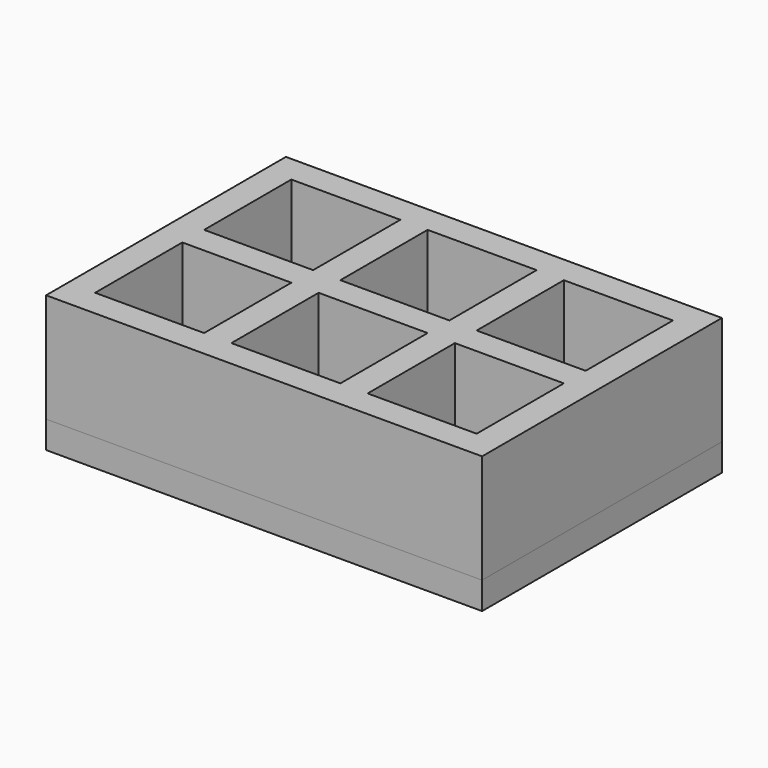
from build123d import *

# Parameters (mm, degrees)
F0_W     = 203.2
F0_H     = 139.7
F0_W_2   = 50.8
F0_H_2   = 12.7
F0_W_3   = 12.7
F0_H_3   = 50.8
F1_DEPTH = 50.8
F2_DEPTH = 12.7


with BuildPart() as f1:
    # F0 (on Top) → F1 (new body)
    with BuildSketch(Plane.XY):
        with Locations((15.3589383218, 1.8395856954)):
            Rectangle(F0_W, F0_H)
        Polygon((-22.7410616782, -55.3104143046), (-73.5410616782, -55.3104143046), (-73.5410616782, -4.5104143046), (-73.5410616782, 8.1895856954), (-73.5410616782, 58.9895856954), (-22.7410616782, 58.9895856954), (-10.0410616782, 58.9895856954), (40.7589383218, 58.9895856954), (53.4589383218, 58.9895856954), (104.2589383218, 58.9895856954), (104.2589383218, 8.1895856954), (104.2589383218, -4.5104143046), (104.2589383218, -55.3104143046), (53.4589383218, -55.3104143046), (40.7589383218, -55.3104143046), (-10.0410616782, -55.3104143046), align=None, mode=Mode.SUBTRACT)
        with Locations((-48.1410616782, 1.8395856954)):
            Rectangle(F0_W_2, F0_H_2)
        with Locations((15.3589383218, 1.8395856954)):
            Rectangle(F0_W_2, F0_H_2)
        with Locations((-16.3910616782, 1.8395856954)):
            Rectangle(F0_W_3, F0_H_2)
        with Locations((47.1089383218, 1.8395856954)):
            Rectangle(F0_W_3, F0_H_2)
        with Locations((78.8589383218, 1.8395856954)):
            Rectangle(F0_W_2, F0_H_2)
        with Locations((47.1089383218, -29.9104143046)):
            Rectangle(F0_W_3, F0_H_3)
        with Locations((-16.3910616782, -29.9104143046)):
            Rectangle(F0_W_3, F0_H_3)
        with Locations((47.1089383218, 33.5895856954)):
            Rectangle(F0_W_3, F0_H_3)
        with Locations((-16.3910616782, 33.5895856954)):
            Rectangle(F0_W_3, F0_H_3)
    extrude(amount=F1_DEPTH)


with BuildPart() as f2:
    # F0 (on Top) → F2 (new body)
    with BuildSketch(Plane.XY):
        with Locations((15.3589383218, 1.8395856954)):
            Rectangle(F0_W, F0_H)
        Polygon((-22.7410616782, -55.3104143046), (-73.5410616782, -55.3104143046), (-73.5410616782, -4.5104143046), (-73.5410616782, 8.1895856954), (-73.5410616782, 58.9895856954), (-22.7410616782, 58.9895856954), (-10.0410616782, 58.9895856954), (40.7589383218, 58.9895856954), (53.4589383218, 58.9895856954), (104.2589383218, 58.9895856954), (104.2589383218, 8.1895856954), (104.2589383218, -4.5104143046), (104.2589383218, -55.3104143046), (53.4589383218, -55.3104143046), (40.7589383218, -55.3104143046), (-10.0410616782, -55.3104143046), align=None, mode=Mode.SUBTRACT)
        with Locations((78.8589383218, 33.5895856954)):
            Rectangle(F0_W_2, F0_H_3)
        with Locations((78.8589383218, -29.9104143046)):
            Rectangle(F0_W_2, F0_H_3)
        with Locations((15.3589383218, 33.5895856954)):
            Rectangle(F0_W_2, F0_H_3)
        with Locations((-48.1410616782, 33.5895856954)):
            Rectangle(F0_W_2, F0_H_3)
        with Locations((15.3589383218, -29.9104143046)):
            Rectangle(F0_W_2, F0_H_3)
        with Locations((-48.1410616782, -29.9104143046)):
            Rectangle(F0_W_2, F0_H_3)
        with Locations((78.8589383218, 1.8395856954)):
            Rectangle(F0_W_2, F0_H_2)
        with Locations((47.1089383218, 33.5895856954)):
            Rectangle(F0_W_3, F0_H_3)
        with Locations((15.3589383218, 1.8395856954)):
            Rectangle(F0_W_2, F0_H_2)
        with Locations((-48.1410616782, 1.8395856954)):
            Rectangle(F0_W_2, F0_H_2)
        with Locations((-16.3910616782, 33.5895856954)):
            Rectangle(F0_W_3, F0_H_3)
        with Locations((47.1089383218, -29.9104143046)):
            Rectangle(F0_W_3, F0_H_3)
        with Locations((-16.3910616782, -29.9104143046)):
            Rectangle(F0_W_3, F0_H_3)
        with Locations((47.1089383218, 1.8395856954)):
            Rectangle(F0_W_3, F0_H_2)
        with Locations((-16.3910616782, 1.8395856954)):
            Rectangle(F0_W_3, F0_H_2)
    extrude(amount=-F2_DEPTH)


solid = Compound([f1.part, f2.part])
